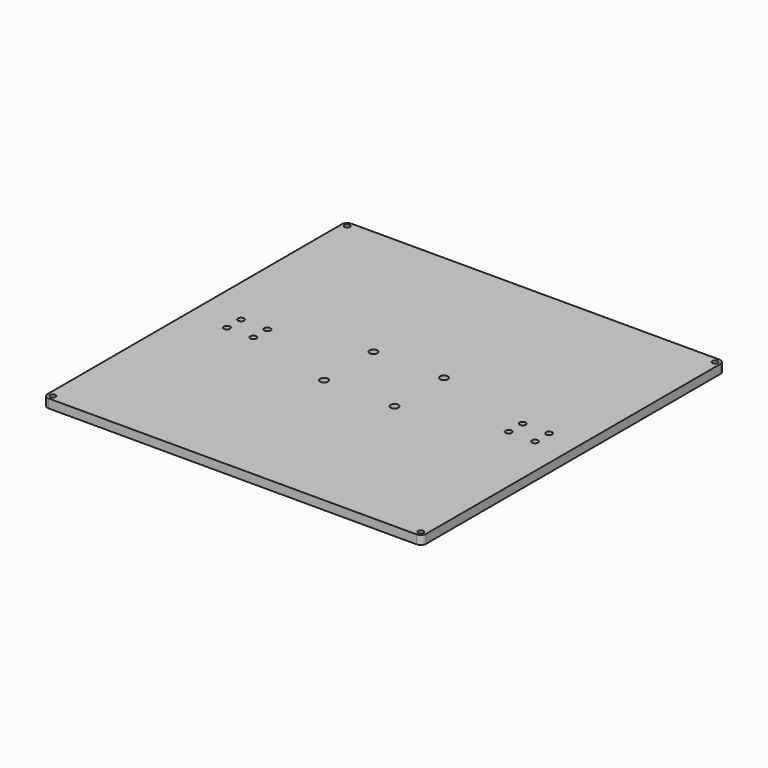
from build123d import *

# Parameters (mm, degrees)
F0_R     = 1.55
F0_R_2   = 1.75
F0_R_3   = 2.25
F1_DEPTH = 5


with BuildPart() as f1:
    # F0 (on Top) → F1 (new body)
    with BuildSketch(Plane.XY):
        with BuildLine():
            ThreePointArc((0, 3), (0.87868, 0.87868), (3, 0))
            Line((3, 0), (212, 0))
            ThreePointArc((212, 0), (214.12132, 0.87868), (215, 3))
            Line((215, 3), (215, 212))
            ThreePointArc((215, 212), (214.12132, 214.12132), (212, 215))
            Line((212, 215), (3, 215))
            ThreePointArc((3, 215), (0.87868, 214.12132), (0, 212))
            Line((0, 212), (0, 3))
        make_face()
        with Locations((3, 3)):
            Circle(F0_R, mode=Mode.SUBTRACT)
        with Locations((22.3, 102.5)):
            Circle(F0_R_2, mode=Mode.SUBTRACT)
        with Locations((37.3, 102.5)):
            Circle(F0_R_2, mode=Mode.SUBTRACT)
        with Locations((87.5, 90)):
            Circle(F0_R_3, mode=Mode.SUBTRACT)
        with Locations((212, 3)):
            Circle(F0_R, mode=Mode.SUBTRACT)
        with Locations((127.5, 90)):
            Circle(F0_R_3, mode=Mode.SUBTRACT)
        with Locations((182.3, 102.5)):
            Circle(F0_R_2, mode=Mode.SUBTRACT)
        with Locations((197.3, 102.5)):
            Circle(F0_R_2, mode=Mode.SUBTRACT)
        with Locations((22.3, 112.5)):
            Circle(F0_R_2, mode=Mode.SUBTRACT)
        with Locations((37.3, 112.5)):
            Circle(F0_R_2, mode=Mode.SUBTRACT)
        with Locations((87.5, 125)):
            Circle(F0_R_3, mode=Mode.SUBTRACT)
        with Locations((3, 212)):
            Circle(F0_R, mode=Mode.SUBTRACT)
        with Locations((127.5, 125)):
            Circle(F0_R_3, mode=Mode.SUBTRACT)
        with Locations((182.3, 112.5)):
            Circle(F0_R_2, mode=Mode.SUBTRACT)
        with Locations((197.3, 112.5)):
            Circle(F0_R_2, mode=Mode.SUBTRACT)
        with Locations((212, 212)):
            Circle(F0_R, mode=Mode.SUBTRACT)
    extrude(amount=F1_DEPTH)


solid = f1.part
